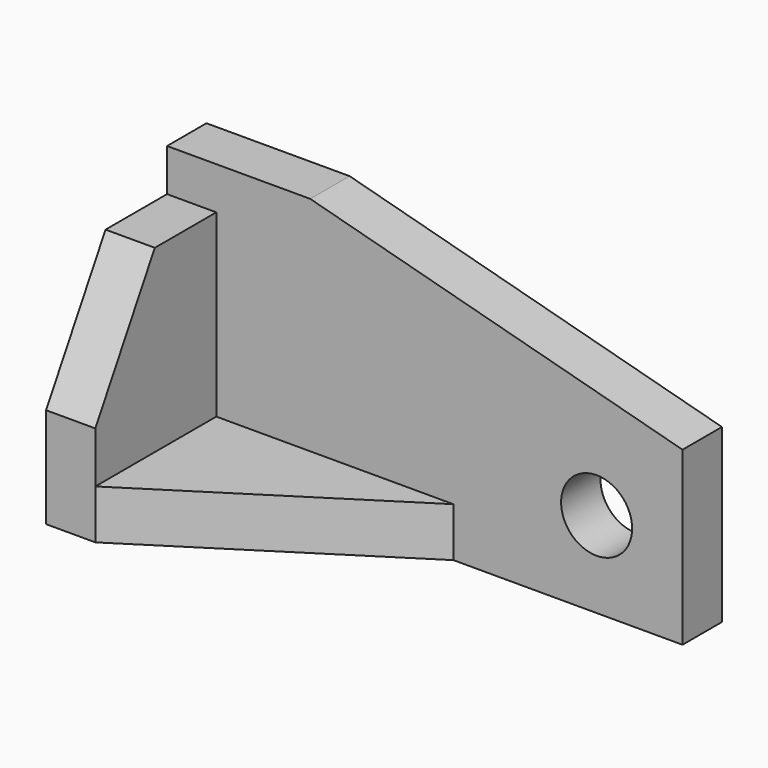
from build123d import *

# Parameters (mm, degrees)
F0_R      = 7.874
F1_DEPTH  = 10.922
F2_DEPTH  = 44.45
F0_W      = 10.922
F0_H      = 28.702
F3_DEPTH  = 44.45
F0_W_2    = 52.578
F0_H_2    = 10.922
F4_DEPTH  = 44.45
F6_DEPTH  = 10.923
F8_DEPTH  = 10.923
F10_DEPTH = 10.923


with BuildPart() as f1:
    # F0 (on Front) → F1 (new body)
    with BuildSketch(Plane.XZ):
        Polygon((37.686378, 76.480935), (-76.613622, 76.480935), (-76.613622, 67.082935), (-65.691622, 67.082935), (-65.691622, 38.380935), (-65.691622, 27.204935), (-13.113622, 27.204935), (-13.113622, 16.282935), (37.686378, 16.282935), align=None)
        with Locations((18.636378, 35.332935)):
            Circle(F0_R, mode=Mode.SUBTRACT)
    extrude(amount=F1_DEPTH)

    # F0 (on Front) → F2 (join)
    with BuildSketch(Plane.XZ):
        Polygon((-65.691622, 38.380935), (-76.613622, 38.380935), (-76.613622, 16.282935), (-65.691622, 16.282935), (-65.691622, 27.204935), align=None)
    extrude(amount=F2_DEPTH)

    # F0 (on Front) → F3 (join)
    with BuildSketch(Plane.XZ):
        with Locations((-71.152622, 52.731935)):
            Rectangle(F0_W, F0_H)
    extrude(amount=F3_DEPTH)

    # F0 (on Front) → F4 (join)
    with BuildSketch(Plane.XZ):
        with Locations((-39.402622, 21.743935)):
            Rectangle(F0_W_2, F0_H_2)
    extrude(amount=F4_DEPTH)

    # F5 (on face) → F6 (cut, through all)
    with BuildSketch(Plane.YZ.offset(-65.691622)):
        Polygon((-44.45, 67.082935), (-44.45, 38.529333), (-27.96457, 67.082935), align=None)
    extrude(amount=-F6_DEPTH, mode=Mode.SUBTRACT)

    # F7 (on face) → F8 (cut, through all)
    with BuildSketch(Plane.XY.offset(27.204935)):
        Polygon((-13.113622, -10.922), (-65.691622, -44.45), (-13.113622, -44.45), align=None)
    extrude(amount=-F8_DEPTH, mode=Mode.SUBTRACT)

    # F9 (on face) → F10 (cut, through all)
    with BuildSketch(Plane.XZ.offset(10.922)):
        Polygon((37.686378, 76.480935), (-44.863622, 76.480935), (37.686378, 54.361729), align=None)
    extrude(amount=-F10_DEPTH, mode=Mode.SUBTRACT)


solid = f1.part
